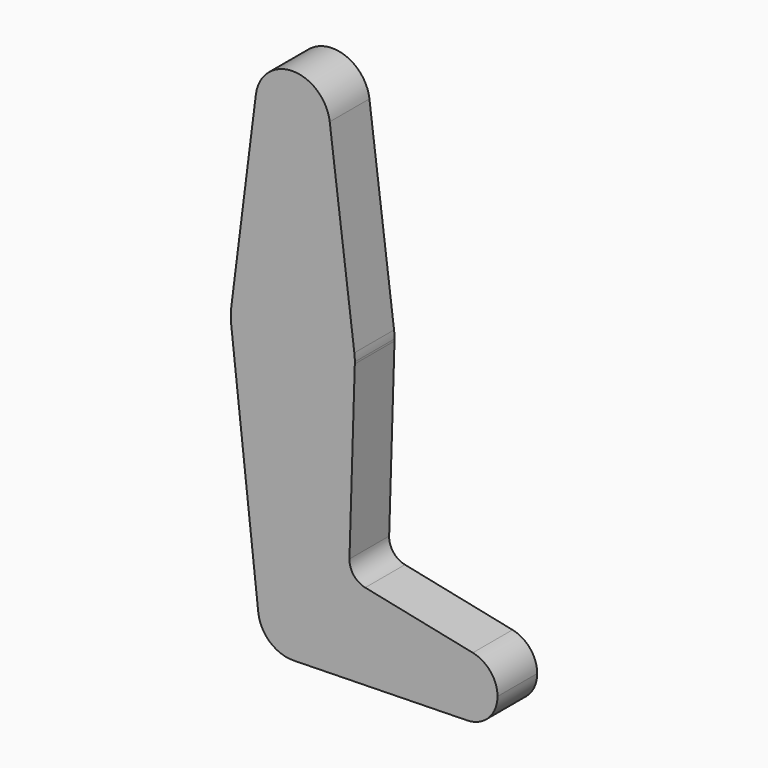
from build123d import *

# Parameters (mm, degrees)
F2_DEPTH = 12.7


with BuildPart() as f2:
    # F0 (on Front) → F2 (new body)
    with BuildSketch(Plane.XZ):
        with BuildLine():
            ThreePointArc((-9.450293, 115.490625), (-0.596483, 104.793695), (9.525, 114.3))
            ThreePointArc((9.525, 114.3), (9.506305, 114.896483), (9.450293, 115.490625))
            ThreePointArc((9.450293, 115.490625), (0, 123.825), (-9.450293, 115.490625))
        make_face()
        with BuildLine():
            ThreePointArc((9.450293, 115.490625), (9.506305, 114.896483), (9.525, 114.3))
            ThreePointArc((9.525, 114.3), (-0.596483, 104.793695), (-9.450293, 115.490625))
            Line((-9.450293, 115.490625), (-15.750488, 65.484375))
            ThreePointArc((-15.750488, 65.484375), (0, 79.375), (15.750488, 65.484375))
            Line((15.750488, 65.484375), (9.450293, 115.490625))
        make_face()
        with BuildLine():
            ThreePointArc((15.875, 63.5), (15.843841, 64.494139), (15.750488, 65.484375))
            ThreePointArc((15.750488, 65.484375), (0, 79.375), (-15.750488, 65.484375))
            ThreePointArc((-15.750488, 65.484375), (-15.874547, 63.619893), (-15.778664, 61.75375))
            ThreePointArc((-15.778664, 61.75375), (0.630191, 47.637513), (15.867467, 63.011))
            ThreePointArc((15.867467, 63.011), (15.873117, 63.255471), (15.875, 63.5))
        make_face()
        with BuildLine():
            ThreePointArc((15.867467, 63.011), (0.630191, 47.637513), (-15.778664, 61.75375))
            Line((-15.778664, 61.75375), (-8.836052, -0.9779))
            ThreePointArc((-8.836052, -0.9779), (-0.489693, 8.876503), (8.89, 0))
            ThreePointArc((8.89, 0), (6.353174, -6.218463), (0.1905, -8.887959))
            Line((0.1905, -8.887959), (44.620089, -7.935677))
            ThreePointArc((44.620089, -7.935677), (36.545983, 0.728304), (46.067357, 7.770976))
            Line((46.067357, 7.770976), (18.542212, 13.499725))
            ThreePointArc((18.542212, 13.499725), (15.587302, 15.328925), (14.499731, 18.62963))
            Line((14.499731, 18.62963), (15.867467, 63.011))
        make_face()
        with BuildLine():
            ThreePointArc((8.89, 0), (-0.489693, 8.876503), (-8.836052, -0.9779))
            ThreePointArc((-8.836052, -0.9779), (-5.859066, -6.686064), (0.1905, -8.887959))
            ThreePointArc((0.1905, -8.887959), (6.353174, -6.218463), (8.89, 0))
        make_face()
        with BuildLine():
            ThreePointArc((46.067357, 7.770976), (36.545983, 0.728304), (44.620089, -7.935677))
            ThreePointArc((44.620089, -7.935677), (50.122477, -5.552199), (52.3875, 0))
            ThreePointArc((52.3875, 0), (50.60799, 5.0083), (46.067357, 7.770976))
        make_face()
    extrude(amount=F2_DEPTH)


solid = f2.part
